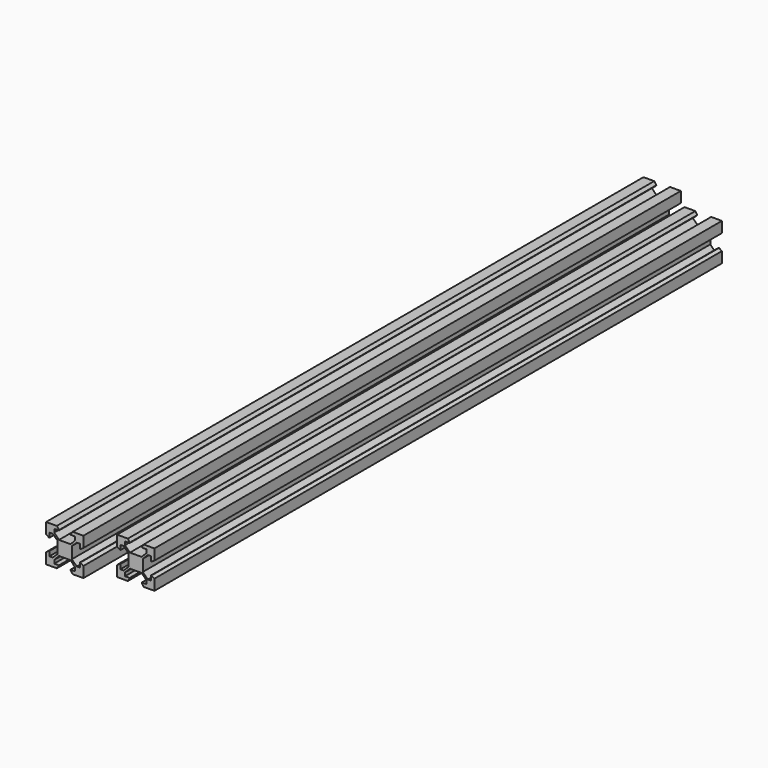
from build123d import *

# Parameters (mm, degrees)
F1_DEPTH = 190
F6_DEPTH = 200


with BuildPart() as f1:
    # F0 (on Front) → F1 (new body, symmetric)
    with BuildSketch(Plane.XZ):
        Polygon((4.2440034449, -10), (10, -10), (10, -4.2440034449), (8.4244990721, -3.261), (8.222, -3.261), (8.222, -5.761), (6.444, -5.761), (3.777, -3.1115), (3.777, 0), (3.777, 3.1115), (6.444, 5.761), (8.222, 5.761), (8.222, 3.261), (8.4244990721, 3.261), (10, 4.2440034449), (10, 10), (4.2440034449, 10), (3.261, 8.4244990721), (3.261, 8.222), (5.761, 8.222), (5.761, 6.444), (3.1115, 3.777), (0, 3.777), (-3.1115, 3.777), (-5.761, 6.444), (-5.761, 8.222), (-3.261, 8.222), (-3.261, 8.4244990721), (-4.2440034449, 10), (-10, 10), (-10, 4.2440034449), (-8.4244990721, 3.261), (-8.222, 3.261), (-8.222, 5.761), (-6.444, 5.761), (-3.777, 3.1115), (-3.777, 0), (-3.777, -3.1115), (-6.444, -5.761), (-8.222, -5.761), (-8.222, -3.261), (-8.4244990721, -3.261), (-10, -4.2440034449), (-10, -10), (-4.2440034449, -10), (-3.261, -8.4244990721), (-3.261, -8.222), (-5.761, -8.222), (-5.761, -6.444), (-3.1115, -3.777), (0, -3.777), (3.1115, -3.777), (5.761, -6.444), (5.761, -8.222), (3.261, -8.222), (3.261, -8.4244990721), align=None)
    extrude(amount=F1_DEPTH, both=True)


with BuildPart() as f2_1:
    # F2: copy of F1
    add(f1.part)


with BuildPart() as f1_1:
    # F4: moved
    add(f1.part.moved(Location((30.3, 0, 0))))


with BuildPart() as f6:
    # F5 (on Front) → F6 (new body, symmetric)
    with BuildSketch(Plane.XZ):
        Polygon((4.5125772154, -9.7132455008), (10.2685737705, -9.7132455008), (10.2685737705, -3.9572489457), (8.6930728426, -2.8242455008), (8.4905737705, -2.8242455008), (8.4905737705, -5.3242455008), (6.7125737705, -5.3242455008), (4.0455737705, -2.8247455008), (4.0455737705, 0.2867544992), (4.0455737705, 3.3982544992), (6.7125737705, 5.8977544992), (8.4905737705, 5.8977544992), (8.4905737705, 3.3977544992), (8.6930728426, 3.3977544992), (10.2685737705, 4.5307579441), (10.2685737705, 10.2867544992), (4.5125772154, 10.2867544992), (3.3795737705, 8.7112535713), (3.3795737705, 8.5087544992), (5.8795737705, 8.5087544992), (5.8795737705, 6.7307544992), (3.3800737705, 4.0637544992), (0.2685737705, 4.0637544992), (-2.8429262295, 4.0637544992), (-5.3424262295, 6.7307544992), (-5.3424262295, 8.5087544992), (-2.8424262295, 8.5087544992), (-2.8424262295, 8.7112535713), (-3.9754296744, 10.2867544992), (-9.7314262295, 10.2867544992), (-9.7314262295, 4.5307579441), (-8.1559253016, 3.3977544992), (-7.9534262295, 3.3977544992), (-7.9534262295, 5.8977544992), (-6.1754262295, 5.8977544992), (-3.5084262295, 3.3982544992), (-3.5084262295, 0.2867544992), (-3.5084262295, -2.8247455008), (-6.1754262295, -5.3242455008), (-7.9534262295, -5.3242455008), (-7.9534262295, -2.8242455008), (-8.1559253016, -2.8242455008), (-9.7314262295, -3.9572489457), (-9.7314262295, -9.7132455008), (-3.9754296744, -9.7132455008), (-2.8424262295, -8.1377445729), (-2.8424262295, -7.9352455008), (-5.3424262295, -7.9352455008), (-5.3424262295, -6.1572455008), (-2.8429262295, -3.4902455008), (0.2685737705, -3.4902455008), (3.3800737705, -3.4902455008), (5.8795737705, -6.1572455008), (5.8795737705, -7.9352455008), (3.3795737705, -7.9352455008), (3.3795737705, -8.1377445729), align=None)
    extrude(amount=F6_DEPTH, both=True)


solid = Compound([f1_1.part, f6.part])
